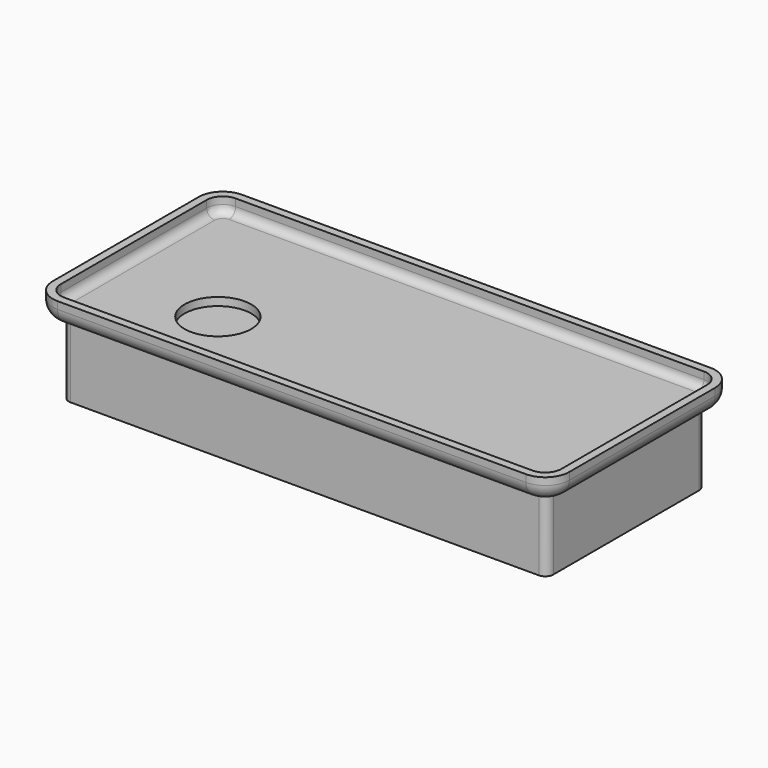
from build123d import *

# Parameters (mm, degrees)
F0_W      = 163.322
F0_H      = 72.898
F1_DEPTH  = 7.366
F2_R      = 7.62
F3_R      = 5.08
F4_T      = -2.54
F5_R      = 10.5491920508
F6_DEPTH  = 30.48
F4_FACE_R = 10.5491920508
F7_DEPTH  = 25.4


with BuildPart() as f1:
    # F0 (on Top) → F1 (new body)
    with BuildSketch(Plane.XY):
        with Locations((81.661, 36.449)):
            Rectangle(F0_W, F0_H)
    extrude(amount=F1_DEPTH)

    # F2
    f2_edges = [f1.edges().sort_by_distance(p)[0] for p in [
        (163.322, 72.898, 3.683),
        (0, 72.898, 3.683),
        (163.322, 0, 3.683),
        (0, 0, 3.683),
    ]]
    fillet(f2_edges, radius=F2_R)

    # F3
    f3_edges = [f1.edges().sort_by_distance(p)[0] for p in [
        (0, 36.449, 0),
        (2.231846, 70.666154, 0),
        (2.231846, 2.231846, 0),
        (81.661, 72.898, 0),
        (81.661, 0, 0),
        (161.090154, 70.666154, 0),
        (161.090154, 2.231846, 0),
        (163.322, 36.449, 0),
    ]]
    fillet(f3_edges, radius=F3_R)

    # F4
    f4_openings = [f1.faces().sort_by_distance(p)[0] for p in [
        (81.661, 36.449, 7.366),
    ]]
    offset(amount=F4_T, openings=f4_openings)

    # F5 (on Top) → F6 (cut)
    with BuildSketch(Plane.XY):
        with Locations((37.9090681672, 25.489339605)):
            Circle(F5_R)
    extrude(amount=F6_DEPTH, mode=Mode.SUBTRACT)

    # F5 (on Top) + F4_face (on face) → F7 (join)
    with BuildSketch(Plane.XY):
        with Locations((37.9090681672, 25.489339605)):
            Circle(F5_R)
    with BuildSketch(Plane(origin=(83.3139491245, 36.8630562553, 2.54), x_dir=(1, 0, 0), z_dir=(0, 0, 1))):
        with BuildLine():
            Line((-78.2339491245, 28.4149437447), (-78.2339491245, -29.2430562553))
            ThreePointArc((-78.2339491245, -29.2430562553), (-77.4900003487, -31.0391074795), (-75.6939491245, -31.7830562553))
            Line((-75.6939491245, -31.7830562553), (72.3880508755, -31.7830562553))
            ThreePointArc((72.3880508755, -31.7830562553), (74.1841020997, -31.0391074795), (74.9280508755, -29.2430562553))
            Line((74.9280508755, -29.2430562553), (74.9280508755, 28.4149437447))
            ThreePointArc((74.9280508755, 28.4149437447), (74.1841020997, 30.210994969), (72.3880508755, 30.9549437447))
            Line((72.3880508755, 30.9549437447), (-75.6939491245, 30.9549437447))
            ThreePointArc((-75.6939491245, 30.9549437447), (-77.4900003487, 30.210994969), (-78.2339491245, 28.4149437447))
        make_face()
        with Locations((-45.4048809573, -11.3737166503)):
            Circle(F4_FACE_R, mode=Mode.SUBTRACT)
    extrude(amount=-F7_DEPTH)


solid = f1.part
